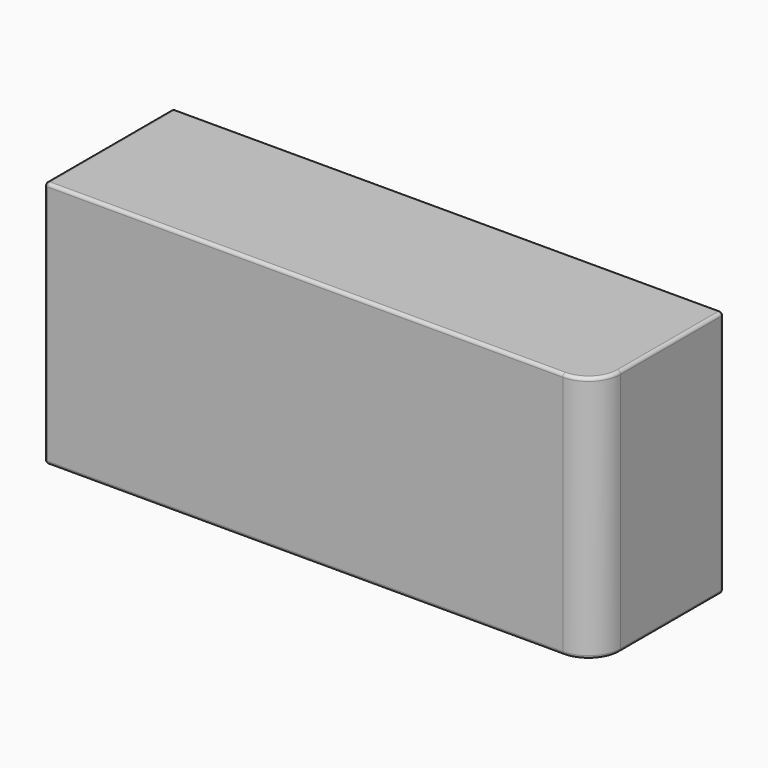
from build123d import *

# Parameters (mm, degrees)
F0_W     = 51.54
F0_H     = 23.2
F1_DEPTH = 15.06
F2_R     = 1.97
F3_DEPTH = 1
F4_R     = 0.3
F5_R     = 3
F6_R     = 0.3


with BuildPart() as f1:
    # F0 (on Front) → F1 (new body)
    with BuildSketch(Plane.XZ):
        Rectangle(F0_W, F0_H)
    extrude(amount=F1_DEPTH)

    # F2 (on face) → F3 (join)
    with BuildSketch(Plane(origin=(-25.77, 0, 0), x_dir=(0, -1, 0), z_dir=(-1, 0, 0))):
        with Locations((7.203062, 0)):
            Circle(F2_R)
    extrude(amount=F3_DEPTH)

    # F4
    f4_edges = [f1.edges().sort_by_distance(p)[0] for p in [
        (-26.77, -5.233062, 0),
    ]]
    fillet(f4_edges, radius=F4_R)

    # F5
    f5_edges = [f1.edges().sort_by_distance(p)[0] for p in [
        (25.77, -15.06, 0),
    ]]
    fillet(f5_edges, radius=F5_R)

    # F6
    f6_edges = [f1.edges().sort_by_distance(p)[0] for p in [
        (-1.5, -15.06, -11.6),
        (-1.5, -15.06, 11.6),
        (-25.77, -15.06, 0),
        (-25.77, -7.53, -11.6),
        (-25.77, 0, 0),
        (-25.77, -7.53, 11.6),
        (0, 0, -11.6),
        (0, 0, 11.6),
        (25.77, 0, 0),
    ]]
    fillet(f6_edges, radius=F6_R)


solid = f1.part
